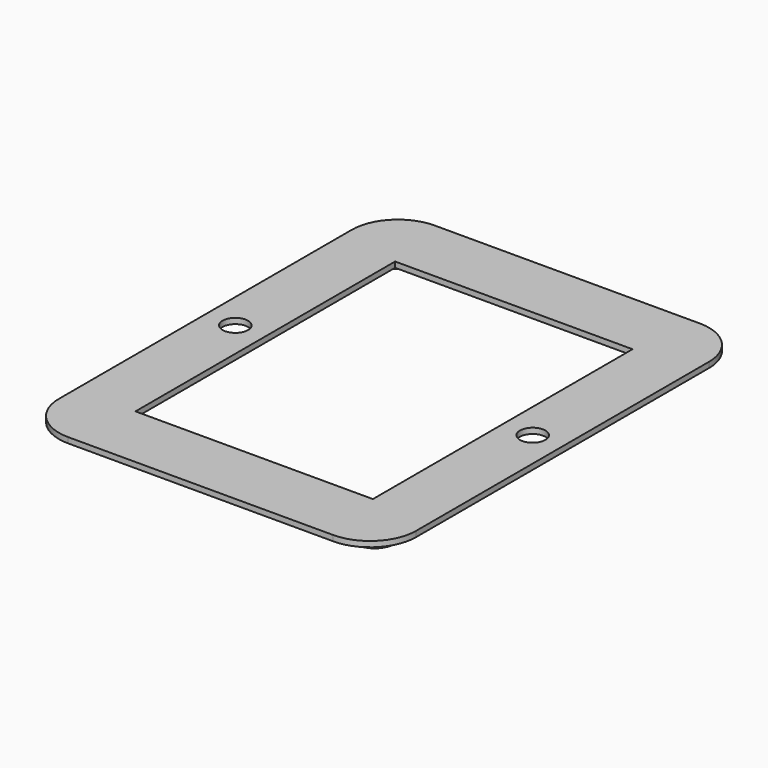
from build123d import *

# Parameters (mm, degrees)
F1_DEPTH = 3.048
F2_W     = 130.81
F2_H     = 178.816
F3_DEPTH = 25.4
F4_R     = 7.0104
F5_DEPTH = 25.4
F6_R     = 10.91242
F7_DEPTH = 5.08


with BuildPart() as f1:
    # F0 (on Top) → F1 (new body)
    with BuildSketch(Plane.XY):
        with BuildLine():
            ThreePointArc((-98.425, -100.838), (-90.985512, -118.798512), (-73.025, -126.238))
            Line((-73.025, -126.238), (73.025, -126.238))
            ThreePointArc((73.025, -126.238), (90.985512, -118.798512), (98.425, -100.838))
            Line((98.425, -100.838), (98.425, 100.838))
            ThreePointArc((98.425, 100.838), (90.985512, 118.798512), (73.025, 126.238))
            Line((73.025, 126.238), (-73.025, 126.238))
            ThreePointArc((-73.025, 126.238), (-90.985512, 118.798512), (-98.425, 100.838))
            Line((-98.425, 100.838), (-98.425, -100.838))
        make_face()
    extrude(amount=F1_DEPTH)

    # F2 (on face) → F3 (cut)
    with BuildSketch(Plane(origin=(0, 0, 0), x_dir=(1, 0, 0), z_dir=(0, 0, -1))):
        Rectangle(F2_W, F2_H)
    extrude(amount=-F3_DEPTH, mode=Mode.SUBTRACT)

    # F4 (on face) → F5 (cut)
    with BuildSketch(Plane(origin=(0, 0, 0), x_dir=(1, 0, 0), z_dir=(0, 0, -1))):
        with Locations((-81.915, 0)):
            Circle(F4_R)
        with Locations((81.915, 0)):
            Circle(F4_R)
    extrude(amount=-F5_DEPTH, mode=Mode.SUBTRACT)

    # F6 (on face) → F7 (join)
    with BuildSketch(Plane(origin=(0, 0, 0), x_dir=(1, 0, 0), z_dir=(0, 0, -1))):
        with Locations((78.195256, 104.103256)):
            Circle(F6_R)
        Polygon((72.54457, 105.392988), (75.680464, 109.325276), (80.710048, 109.325276), (83.845943, 105.392988), (82.726755, 100.489507), (78.195256, 98.307252), (73.663757, 100.489507), align=None, mode=Mode.SUBTRACT)
        with Locations((-78.195256, 104.103256)):
            Circle(F6_R)
        Polygon((-83.652061, 105.348736), (-80.623763, 109.146102), (-75.766749, 109.146102), (-72.738451, 105.348736), (-73.819238, 100.613498), (-78.195256, 98.506119), (-82.571274, 100.613498), align=None, mode=Mode.SUBTRACT)
        with Locations((-78.195256, -104.103256)):
            Circle(F6_R)
        Polygon((-83.845943, -102.813524), (-80.710048, -98.881237), (-75.680464, -98.881237), (-72.54457, -102.813524), (-73.663757, -107.717006), (-78.195256, -109.89926), (-82.726755, -107.717006), align=None, mode=Mode.SUBTRACT)
        with Locations((78.195256, -104.103256)):
            Circle(F6_R)
        Polygon((72.54457, -102.813524), (75.680464, -98.881237), (80.710048, -98.881237), (83.845943, -102.813524), (82.726755, -107.717006), (78.195256, -109.89926), (73.663757, -107.717006), align=None, mode=Mode.SUBTRACT)
    extrude(amount=F7_DEPTH)


solid = f1.part
